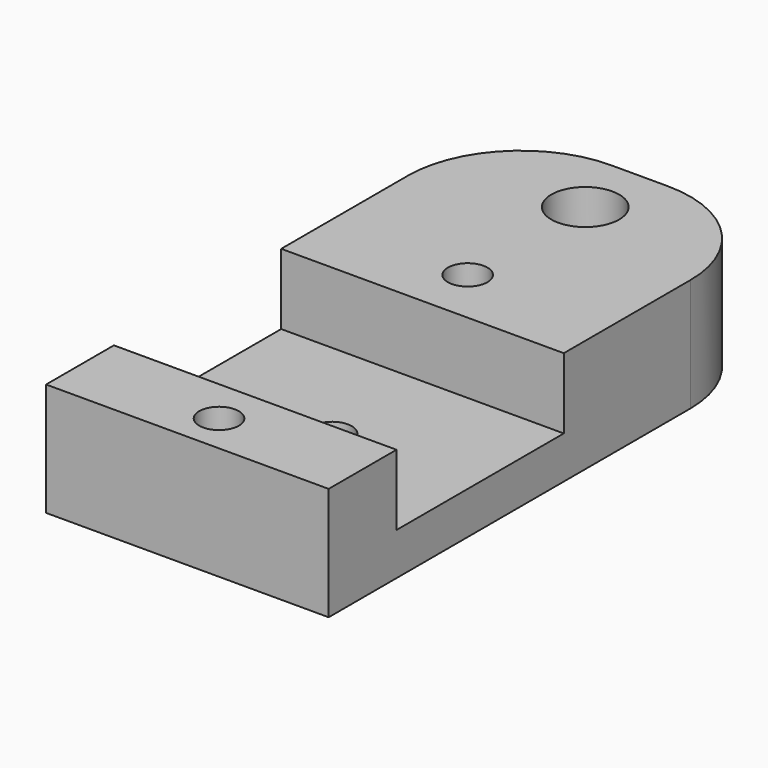
from build123d import *

# Parameters (mm, degrees)
F0_W     = 50
F0_H     = 100
F1_DEPTH = 20
F2_R     = 6
F3_DEPTH = 25
F4_R     = 20
F5_R     = 20
F6_W     = 37
F6_H     = 12.5
F7_DEPTH = 50.001
F8_R     = 3.5
F9_DEPTH = 20.001


with BuildPart() as f1:
    # F0 (on Top) → F1 (new body)
    with BuildSketch(Plane.XY):
        with Locations((6.21234, -33.364211)):
            Rectangle(F0_W, F0_H)
    extrude(amount=F1_DEPTH)

    # F2 (on face) → F3 (cut)
    with BuildSketch(Plane.XY.offset(20)):
        with Locations((6.21234, 4.635789)):
            Circle(F2_R)
    extrude(amount=-F3_DEPTH, mode=Mode.SUBTRACT)

    # F4
    f4_edges = [f1.edges().sort_by_distance(p)[0] for p in [
        (31.21234, 16.635789, 10),
    ]]
    fillet(f4_edges, radius=F4_R)

    # F5
    f5_edges = [f1.edges().sort_by_distance(p)[0] for p in [
        (-18.78766, 16.635789, 10),
    ]]
    fillet(f5_edges, radius=F5_R)

    # F6 (on face) → F7 (cut, through all)
    with BuildSketch(Plane.YZ.offset(31.21234)):
        with Locations((-49.864211, 13.75)):
            Rectangle(F6_W, F6_H)
    extrude(amount=-F7_DEPTH, mode=Mode.SUBTRACT)

    # F8 (on face) → F9 (cut, through all)
    with BuildSketch(Plane(origin=(0, 0, 0), x_dir=(1, 0, 0), z_dir=(0, 0, -1))):
        with Locations((6.21234, 51.364211)):
            Circle(F8_R)
        with Locations((6.21234, 21.364211)):
            Circle(F8_R)
        with Locations((6.21234, 76.364211)):
            Circle(F8_R)
    extrude(amount=-F9_DEPTH, mode=Mode.SUBTRACT)


solid = f1.part
